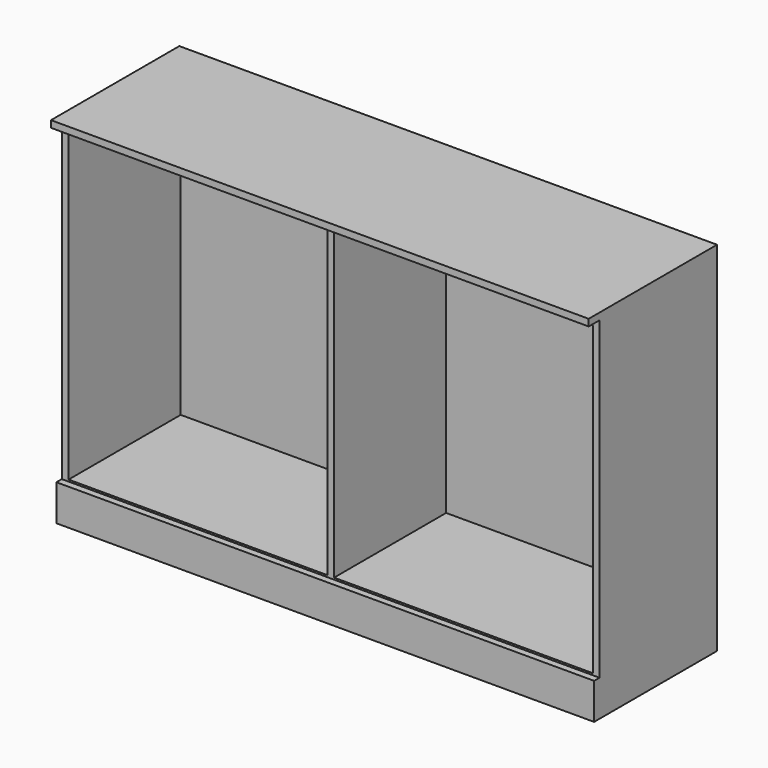
from build123d import *

# Parameters (mm, degrees)
F0_W     = 19.05
F0_H     = 860.425
F1_DEPTH = 393.7
F2_W     = 1511.3
F2_H     = 884.555
F3_DEPTH = 19.05
F4_W     = 1511.3
F4_H     = 450.85
F5_DEPTH = 19.05
F6_W     = 1511.3
F6_H     = 431.8
F7_DEPTH = 101.6


with BuildPart() as f1:
    # F0 (on Front) → F1 (new body)
    with BuildSketch(Plane.XZ):
        Polygon((0, 879.475), (0, 860.425), (9.525, 860.425), (736.6, 860.425), (755.65, 860.425), (755.65, 879.475), align=None)
        Polygon((-9.525, 860.425), (0, 860.425), (0, 879.475), (-755.65, 879.475), (-755.65, 860.425), (-736.6, 860.425), align=None)
        with Locations((746.125, 430.2125)):
            Rectangle(F0_W, F0_H)
        Polygon((736.6, 0), (9.525, 0), (0, 0), (-9.525, 0), (-736.6, 0), (-755.65, 0), (-755.65, -5.08), (755.65, -5.08), (755.65, 0), align=None)
        with Locations((-746.125, 430.2125)):
            Rectangle(F0_W, F0_H)
        Polygon((9.525, 860.425), (0, 860.425), (-9.525, 860.425), (-9.525, 0), (0, 0), (9.525, 0), align=None)
    extrude(amount=F1_DEPTH)

    # F2 (on face) → F3 (join)
    with BuildSketch(Plane(origin=(0, 0, 0), x_dir=(-1, 0, 0), z_dir=(0, 1, 0))):
        with Locations((0, 437.1975)):
            Rectangle(F2_W, F2_H)
    extrude(amount=F3_DEPTH)

    # F4 (on face) → F5 (join)
    with BuildSketch(Plane.XY.offset(879.475)):
        with Locations((0, -206.375)):
            Rectangle(F4_W, F4_H)
    extrude(amount=F5_DEPTH)

    # F6 (on face) → F7 (join)
    with BuildSketch(Plane(origin=(0, 0, -5.08), x_dir=(1, 0, 0), z_dir=(0, 0, -1))):
        with Locations((0, 196.85)):
            Rectangle(F6_W, F6_H)
    extrude(amount=F7_DEPTH)


solid = f1.part
